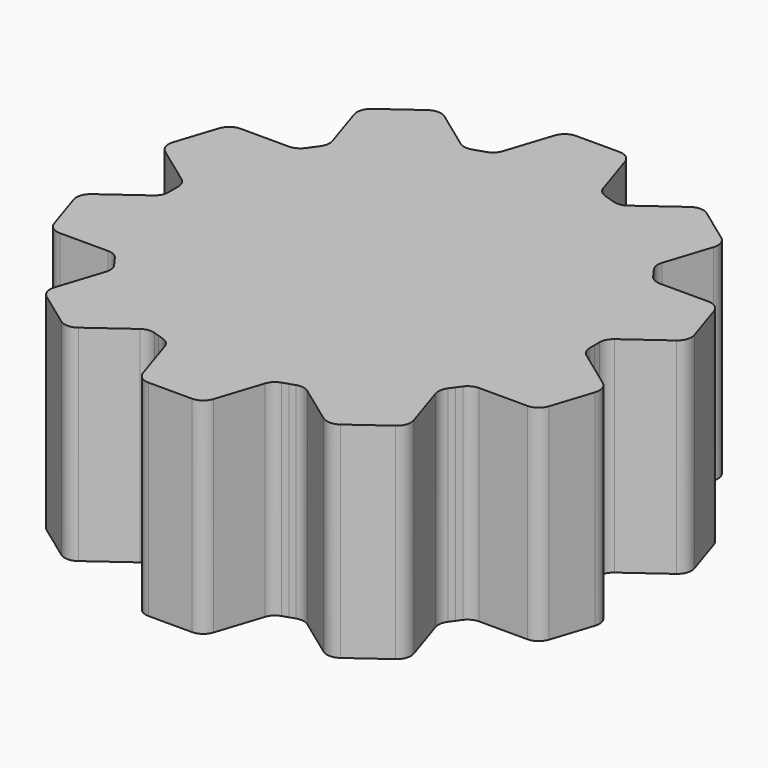
from build123d import *

# Parameters (mm, degrees)
PAD_DEPTH          = 10
POLARPATTERN_COUNT = 10


with BuildPart() as part:
    # Sketch002 → Pad (new body)
    with BuildSketch(Plane.XY):
        with BuildLine():
            Line((8.292424, -6.024799), (8.12043, -6.261529))
            ThreePointArc((8.12043, -6.261529), (7.99536, -6.563475), (8.021002, -6.889291))
            Line((8.021002, -6.889291), (8.744966, -9.117423))
            ThreePointArc((8.490676, -9.900046), (8.744966, -9.550046), (8.744966, -9.117423))
            Line((8.490676, -9.900046), (6.79174, -11.134395))
            ThreePointArc((5.968841, -11.134395), (6.380291, -11.268084), (6.79174, -11.134395))
            Line((5.968841, -11.134395), (4.073479, -9.757334))
            ThreePointArc((4.073479, -9.757334), (3.771533, -9.632264), (3.445717, -9.657906))
            Line((3.445717, -9.657906), (3.167424, -9.748329))
            Line((0, 0), (3.167424, -9.748329))
            Line((0, 0), (8.292424, -6.024799))
        make_face()
    pad = extrude(amount=PAD_DEPTH)

    # PolarPattern: Pad ×10 about axis
    polarpattern_axis = Axis((0, 0, 0), (0, 0, 1))
    for i in range(1, POLARPATTERN_COUNT):
        add(pad.rotate(polarpattern_axis, i * 360 / POLARPATTERN_COUNT))


solid = part.part
